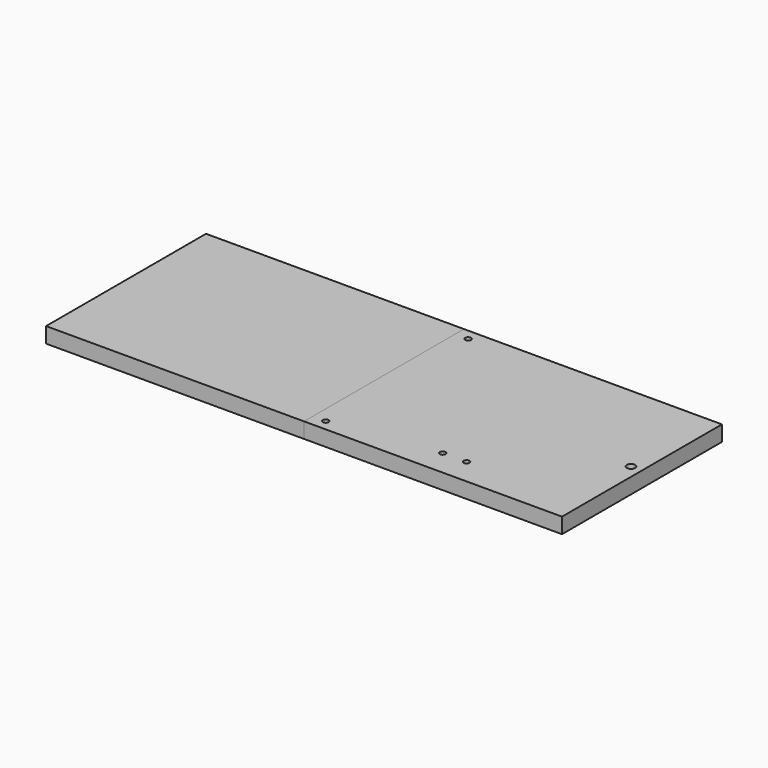
from build123d import *

# Parameters (mm, degrees)
SKETCH_W        = 400
SKETCH_H        = 155
SKETCH_R        = 2.25
SKETCH_R_2      = 3.25
PAD_DEPTH       = 12
POCKET_DEPTH    = 3.5
SKETCH002_R     = 5.25
POCKET001_DEPTH = 4
BOX_W           = 200
BOX_H           = 155
BOX_DEPTH       = 12


with BuildPart() as body:
    # Sketch → Pad (new body)
    with BuildSketch(Plane.XY):
        with Locations((200, 77.5)):
            Rectangle(SKETCH_W, SKETCH_H)
        with Locations((190, 8.5)):
            Circle(SKETCH_R, mode=Mode.SUBTRACT)
        with Locations((190, 146.5)):
            Circle(SKETCH_R, mode=Mode.SUBTRACT)
        with Locations((210, 8.5)):
            Circle(SKETCH_R, mode=Mode.SUBTRACT)
        with Locations((210, 146.5)):
            Circle(SKETCH_R, mode=Mode.SUBTRACT)
        with Locations((391.5, 77.5)):
            Circle(SKETCH_R_2, mode=Mode.SUBTRACT)
        with Locations((25, 37.5)):
            Circle(SKETCH_R, mode=Mode.SUBTRACT)
        with Locations((25, 117.5)):
            Circle(SKETCH_R, mode=Mode.SUBTRACT)
        with Locations((100, 22.5)):
            Circle(SKETCH_R, mode=Mode.SUBTRACT)
        with Locations((100, 132.5)):
            Circle(SKETCH_R, mode=Mode.SUBTRACT)
        with Locations((190, 60.5)):
            Circle(SKETCH_R, mode=Mode.SUBTRACT)
        with Locations((190, 94.5)):
            Circle(SKETCH_R, mode=Mode.SUBTRACT)
        with Locations((291.5, 20)):
            Circle(SKETCH_R, mode=Mode.SUBTRACT)
        with Locations((310, 20)):
            Circle(SKETCH_R, mode=Mode.SUBTRACT)
    extrude(amount=PAD_DEPTH)

    # Sketch001 (on Face18 of Pad) → Pocket (cut)
    with BuildSketch(Plane(origin=(0, 0, 0), x_dir=(1, 0, 0), z_dir=(0, 0, -1))):
        Polygon((29.041452, -37.5), (27.020726, -34), (22.979274, -34), (20.958548, -37.5), (22.979274, -41), (27.020726, -41), align=None)
        Polygon((102.020726, -26), (104.041452, -22.5), (102.020726, -19), (97.979274, -19), (95.958548, -22.5), (97.979274, -26), align=None)
        Polygon((194.041452, -60.5), (192.020726, -57), (187.979274, -57), (185.958548, -60.5), (187.979274, -64), (192.020726, -64), align=None)
        Polygon((27.020726, -114), (22.979274, -114), (20.958548, -117.5), (22.979274, -121), (27.020726, -121), (29.041452, -117.5), align=None)
        Polygon((192.020726, -5), (187.979274, -5), (185.958548, -8.5), (187.979274, -12), (192.020726, -12), (194.041452, -8.5), align=None)
        Polygon((102.020726, -129), (97.979274, -129), (95.958548, -132.5), (97.979274, -136), (102.020726, -136), (104.041452, -132.5), align=None)
        Polygon((192.020726, -91), (187.979274, -91), (185.958548, -94.5), (187.979274, -98), (192.020726, -98), (194.041452, -94.5), align=None)
        Polygon((192.020726, -143), (187.979274, -143), (185.958548, -146.5), (187.979274, -150), (192.020726, -150), (194.041452, -146.5), align=None)
        Polygon((212.020726, -12), (214.041452, -8.5), (212.020726, -5), (207.979274, -5), (205.958548, -8.5), (207.979274, -12), align=None)
        Polygon((212.020726, -143), (207.979274, -143), (205.958548, -146.5), (207.979274, -150), (212.020726, -150), (214.041452, -146.5), align=None)
        Polygon((295.541452, -20), (293.520726, -16.5), (289.479274, -16.5), (287.458548, -20), (289.479274, -23.5), (293.520726, -23.5), align=None)
        Polygon((312.020726, -16.5), (307.979274, -16.5), (305.958548, -20), (307.979274, -23.5), (312.020726, -23.5), (314.041452, -20), align=None)
    extrude(amount=-POCKET_DEPTH, mode=Mode.SUBTRACT)

    # Sketch002 (on Face4 of Pocket) → Pocket001 (cut)
    with BuildSketch(Plane(origin=(0, 0, 0), x_dir=(1, 0, 0), z_dir=(0, 0, -1))):
        with Locations((391.5, -77.5)):
            Circle(SKETCH002_R)
    extrude(amount=-POCKET001_DEPTH, mode=Mode.SUBTRACT)


with BuildPart() as cube:
    # Box → Box (new body)
    with BuildSketch(Plane.XY):
        with Locations((100, 77.5)):
            Rectangle(BOX_W, BOX_H)
    extrude(amount=BOX_DEPTH)


solid = Compound([body.part, cube.part])
